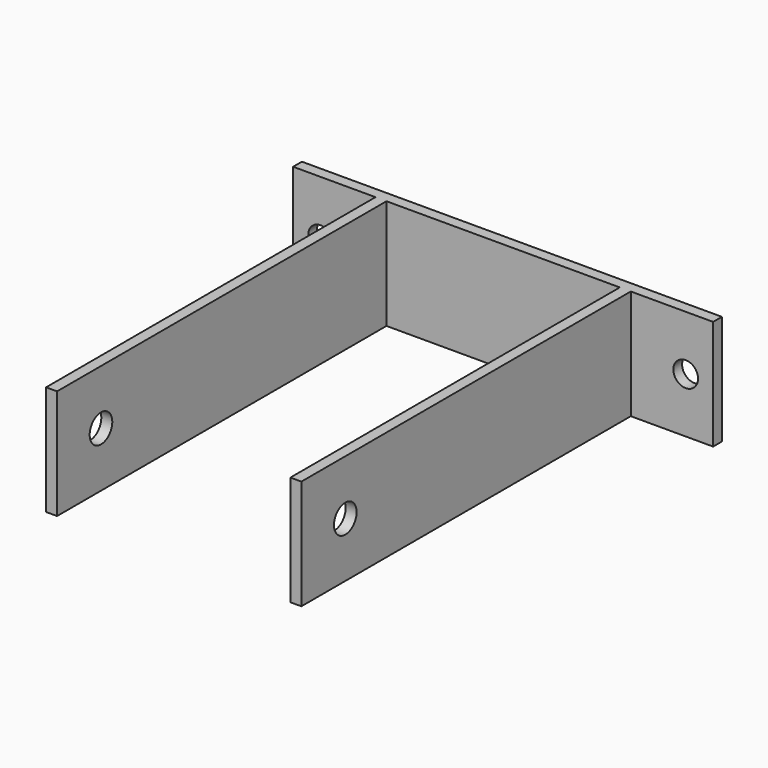
from build123d import *

# Parameters (mm, degrees)
F0_W     = 153
F0_H     = 40
F1_DEPTH = 4
F2_W     = 4
F2_H     = 40
F3_DEPTH = 150
F4_R     = 4.5
F5_DEPTH = 25
F6_R     = 5.15
F7_DEPTH = 123.001


with BuildPart() as f1:
    # F0 (on Front) → F1 (new body)
    with BuildSketch(Plane.XZ):
        with Locations((76.5, 20)):
            Rectangle(F0_W, F0_H)
    extrude(amount=F1_DEPTH)

    # F2 (on face) → F3 (join)
    with BuildSketch(Plane.XZ.offset(4)):
        with Locations((32, 20)):
            Rectangle(F2_W, F2_H)
        with Locations((121, 20)):
            Rectangle(F2_W, F2_H)
    extrude(amount=F3_DEPTH)

    # F4 (on face) → F5 (cut)
    with BuildSketch(Plane.XZ.offset(4)):
        with Locations((143, 20)):
            Circle(F4_R)
        with Locations((10, 20)):
            Circle(F4_R)
    extrude(amount=-F5_DEPTH, mode=Mode.SUBTRACT)

    # F6 (on face) → F7 (cut, through all)
    with BuildSketch(Plane.YZ.offset(123)):
        with Locations((-134, 20)):
            Circle(F6_R)
    extrude(amount=-F7_DEPTH, mode=Mode.SUBTRACT)


solid = f1.part
